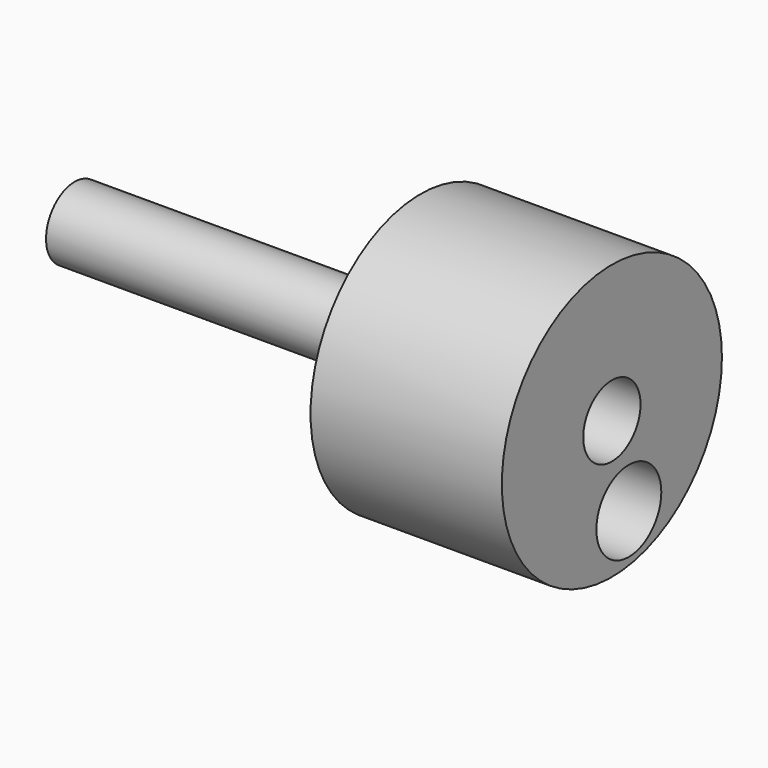
from build123d import *

# Parameters (mm, degrees)
F0_R     = 39.426772
F1_DEPTH = 381
F2_R     = 151.482049
F2_R_2   = 44.689812
F2_R_3   = 39.426772
F3_DEPTH = 210.710973


with BuildPart() as f1:
    # F0 (on Right) → F1 (new body)
    with BuildSketch(Plane.YZ):
        Circle(F0_R)
    extrude(amount=F1_DEPTH)


with BuildPart() as f3:
    # F2 (on face) → F3 (new body)
    with BuildSketch(Plane.YZ.offset(381)):
        Circle(F2_R)
        with Locations((23.329172, -96.789889)):
            Circle(F2_R_2, mode=Mode.SUBTRACT)
        Circle(F2_R_3, mode=Mode.SUBTRACT)
    extrude(amount=F3_DEPTH)


solid = Compound([f1.part, f3.part])
